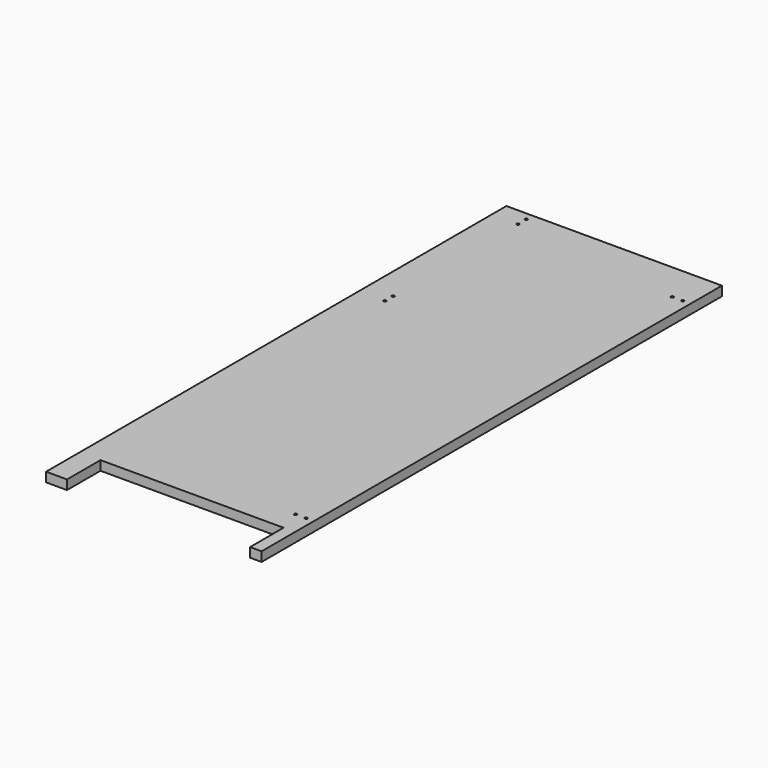
from build123d import *

# Parameters (mm, degrees)
F0_W     = 412
F0_H     = 1100
F1_DEPTH = 18
F2_W     = 350
F2_H     = 80
F3_DEPTH = 25
F4_R     = 2.5
F5_DEPTH = 15


with BuildPart() as f1:
    # F0 (on Top) → F1 (new body)
    with BuildSketch(Plane.XY):
        with Locations((3.552631, 303.48327)):
            Rectangle(F0_W, F0_H)
    extrude(amount=F1_DEPTH)

    # F2 (on face) → F3 (cut)
    with BuildSketch(Plane.XY.offset(18)):
        with Locations((12.552631, -206.51673)):
            Rectangle(F2_W, F2_H)
    extrude(amount=-F3_DEPTH, mode=Mode.SUBTRACT)

    # F4 (on face) → F5 (cut)
    with BuildSketch(Plane.XY.offset(18)):
        with Locations((194.552631, 778.48327)):
            Circle(F4_R)
        with Locations((174.552631, 778.48327)):
            Circle(F4_R)
        with Locations((-152.447369, 818.48327)):
            Circle(F4_R)
        with Locations((-152.447369, 838.48327)):
            Circle(F4_R)
        with Locations((194.552631, -121.51673)):
            Circle(F4_R)
        with Locations((174.552631, -121.51673)):
            Circle(F4_R)
        with Locations((-152.447369, 520.48327)):
            Circle(F4_R)
        with Locations((-152.447369, 500.48327)):
            Circle(F4_R)
    extrude(amount=-F5_DEPTH, mode=Mode.SUBTRACT)


solid = f1.part
